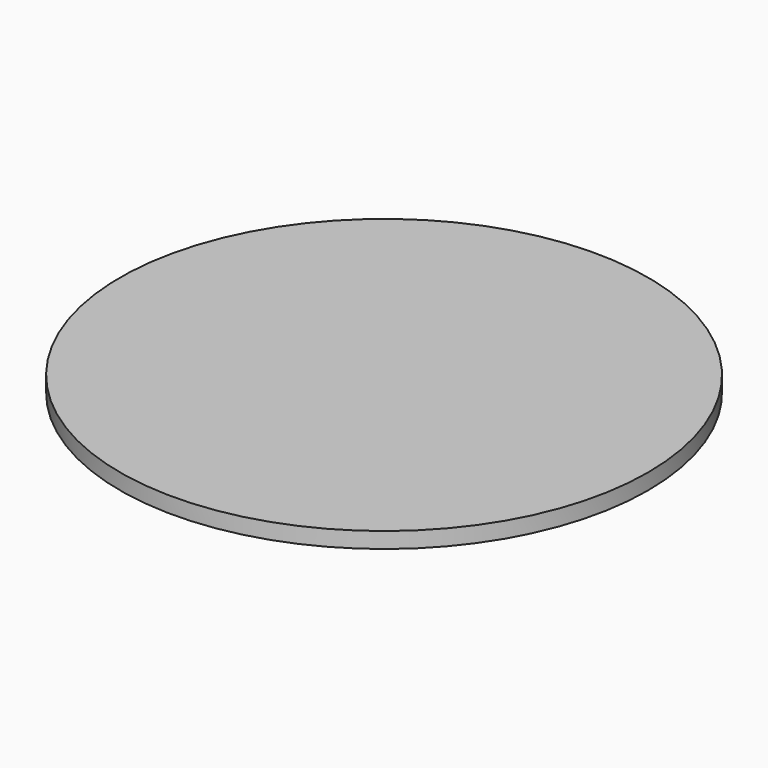
from build123d import *

# Parameters (mm, degrees)
CYLINDER_R     = 0.5
CYLINDER_DEPTH = 0.03


with BuildPart() as part:
    # Cylinder → Cylinder (new body)
    with BuildSketch(Plane.XY):
        Circle(CYLINDER_R)
    extrude(amount=CYLINDER_DEPTH)


solid = part.part
